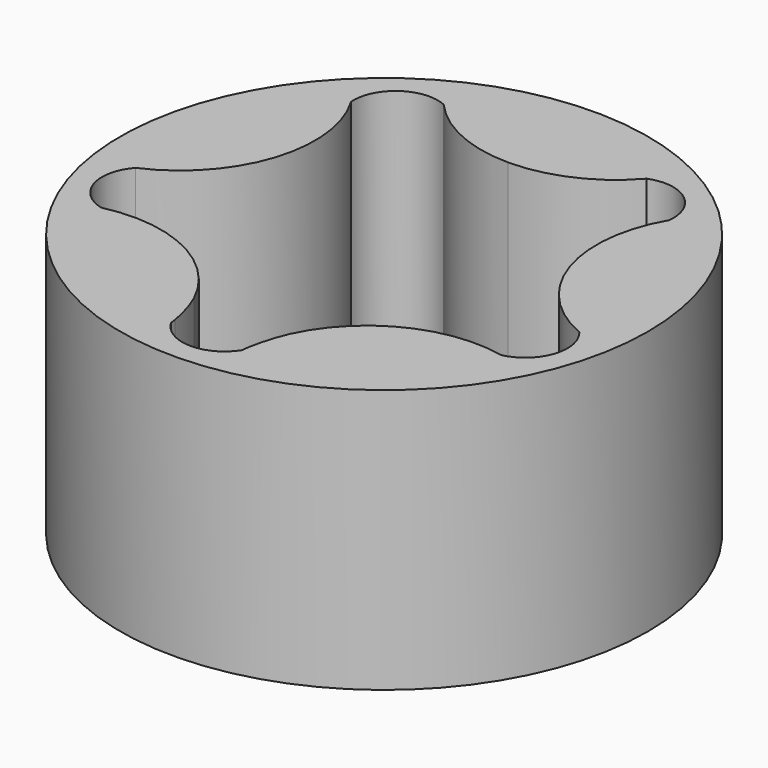
from build123d import *

# Parameters (mm, degrees)
F0_R     = 25
F1_DEPTH = 25


with BuildPart() as f1:
    # F0 (on Top) → F1 (new body)
    with BuildSketch(Plane.XY):
        with Locations((-17.883781, 14.632482)):
            Circle(F0_R)
        with BuildLine():
            ThreePointArc((-27.414764, 33.589041), (-23.106192, 30.433494), (-17.883781, 29.316492))
            ThreePointArc((-17.883781, 29.316492), (-12.599311, 30.461512), (-8.262735, 33.691187))
            ThreePointArc((-8.262735, 33.691187), (-4.363213, 33.165893), (-2.800257, 29.554884))
            ThreePointArc((-2.800257, 29.554884), (-3.897243, 19.105389), (3.215191, 11.371787))
            ThreePointArc((3.215191, 11.371787), (3.920626, 7.500796), (0.969333, 4.898474))
            ThreePointArc((0.969333, 4.898474), (-7.420198, 3.862149), (-13.323212, -2.188688))
            ThreePointArc((-13.323212, -2.188688), (-13.957066, -3.936983), (-14.383781, -5.747016))
            ThreePointArc((-14.383781, -5.747016), (-14.429117, -6.093674), (-14.464945, -6.441444))
            ThreePointArc((-14.464945, -6.441444), (-17.928485, -8.308554), (-21.31544, -6.305869))
            ThreePointArc((-21.31544, -6.305869), (-21.346529, -6.026066), (-21.383781, -5.747016))
            ThreePointArc((-21.383781, -5.747016), (-21.810496, -3.936983), (-22.44435, -2.188688))
            ThreePointArc((-22.44435, -2.188688), (-28.408446, 3.892235), (-36.869796, 4.868774))
            ThreePointArc((-36.869796, 4.868774), (-39.715816, 7.585828), (-38.857777, 11.425877))
            ThreePointArc((-38.857777, 11.425877), (-31.828237, 19.234904), (-33.03662, 29.672104))
            ThreePointArc((-33.03662, 29.672104), (-31.332017, 33.218445), (-27.414764, 33.589041))
        make_face(mode=Mode.SUBTRACT)
    extrude(amount=F1_DEPTH)


solid = f1.part
